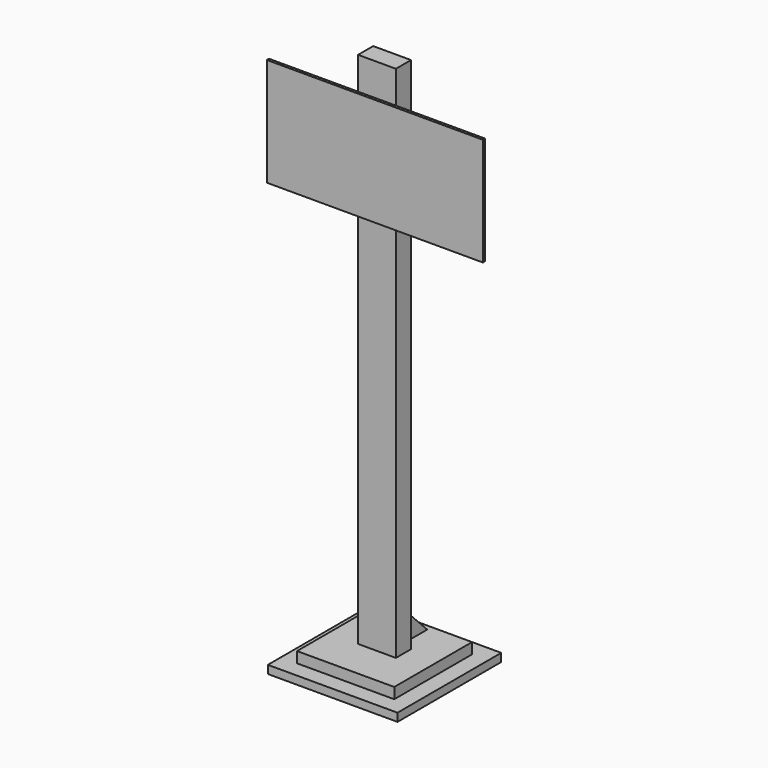
from build123d import *

# Parameters (mm, degrees)
F0_W      = 304.8
F0_H      = 304.8
F1_DEPTH  = 19.05
F2_W      = 228.6
F2_H      = 228.6
F3_DEPTH  = 25.4
F4_W      = 88.9
F4_H      = 44.45
F5_DEPTH  = 1219.2
F6_W      = 38.1
F6_H      = 79.375
F7_DEPTH  = 80.01
F9_DEPTH  = 50.8
F10_W     = 508
F10_H     = 254
F11_DEPTH = 6.35


with BuildPart() as f1:
    # F0 (on Top) → F1 (new body)
    with BuildSketch(Plane.XY):
        Rectangle(F0_W, F0_H)
    extrude(amount=F1_DEPTH)

    # F2 (on face) → F3 (join)
    with BuildSketch(Plane.XY.offset(19.05)):
        Rectangle(F2_W, F2_H)
    extrude(amount=F3_DEPTH)

    # F4 (on face) → F5 (join)
    with BuildSketch(Plane.XY.offset(44.45)):
        Rectangle(F4_W, F4_H)
    extrude(amount=F5_DEPTH)

    # F6 (on face) → F7 (join)
    with BuildSketch(Plane.XY.offset(44.45)):
        with Locations((0, 61.9125)):
            Rectangle(F6_W, F6_H)
    extrude(amount=F7_DEPTH)

    # F8 (on face) → F9 (cut)
    with BuildSketch(Plane(origin=(-19.05, 0, 0), x_dir=(0, -1, 0), z_dir=(-1, 0, 0))):
        Polygon((-101.6, 124.46), (-101.6, 44.45), (-22.225, 124.46), align=None)
    extrude(amount=-F9_DEPTH, mode=Mode.SUBTRACT)

    # F10 (on face) → F11 (join)
    with BuildSketch(Plane.XZ.offset(22.225)):
        with Locations((0, 1060.45)):
            Rectangle(F10_W, F10_H)
    extrude(amount=F11_DEPTH)


solid = f1.part
